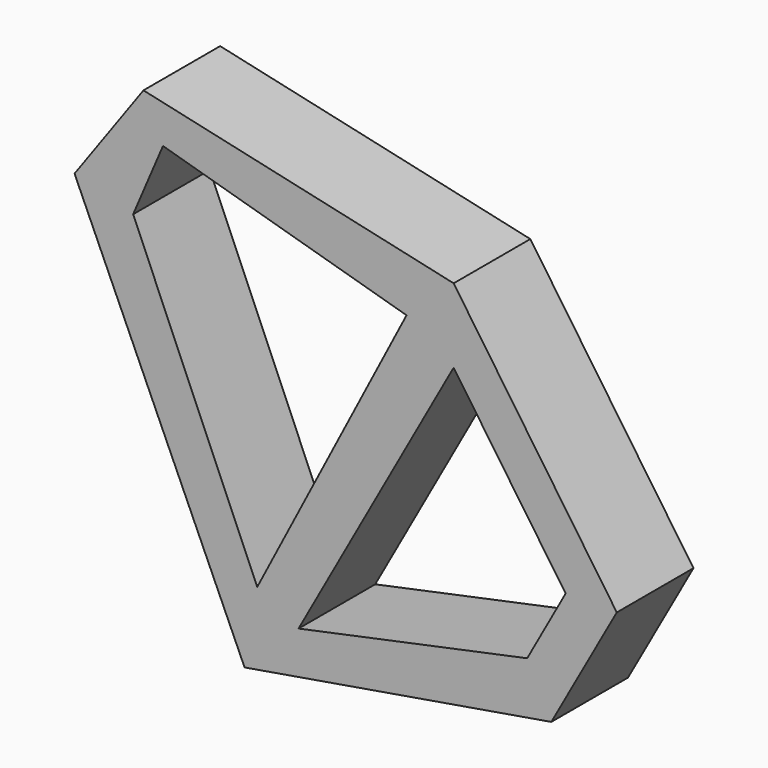
from build123d import *

# Parameters (mm, degrees)
F1_DEPTH = 30


with BuildPart() as f1:
    # F0 (on Front) → F1 (new body)
    with BuildSketch(Plane.XZ):
        Polygon((52.768022, 57.033721), (-44.317942, 78.629129), (-65.8926, 48.668932), (-12.675109, -70.090957), (83.332121, -53.882539), (103.828043, -17.042199), align=None)
        Polygon((4.225037, -53.882539), (52.768022, 33.813149), (87.822262, -17.042199), (75.780988, -38.802642), align=None, mode=Mode.SUBTRACT)
        Polygon((-47.554146, 43.428849), (-38.205128, 65.291479), (38.025331, 43.428849), (-8.719755, -46.655327), align=None, mode=Mode.SUBTRACT)
    extrude(amount=F1_DEPTH)


solid = f1.part
